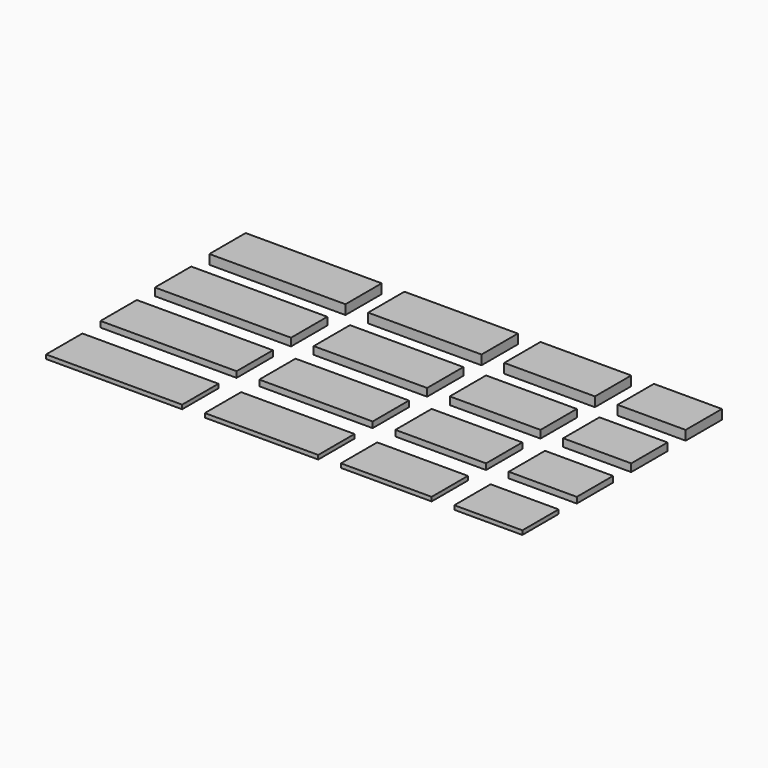
from build123d import *

# Parameters (mm, degrees)
F0_W     = 30
F0_H     = 10
F0_W_2   = 25
F0_W_3   = 20
F0_W_4   = 15
F1_DEPTH = 2.1
F2_DEPTH = 1.7
F3_DEPTH = 1.3
F4_DEPTH = 0.9


with BuildPart() as f1:
    # F0 (on Top) → F1 (new body)
    with BuildSketch(Plane.XY):
        with Locations((-29.892448, 22.135165)):
            Rectangle(F0_W, F0_H)
        with Locations((2.607552, 22.135165)):
            Rectangle(F0_W_2, F0_H)
        with Locations((30.107552, 22.135165)):
            Rectangle(F0_W_3, F0_H)
        with Locations((52.607552, 22.135165)):
            Rectangle(F0_W_4, F0_H)
    extrude(amount=F1_DEPTH)


with BuildPart() as f2:
    # F0 (on Top) → F2 (new body)
    with BuildSketch(Plane.XY):
        with Locations((-29.892448, 7.135165)):
            Rectangle(F0_W, F0_H)
        with Locations((2.607552, 7.135165)):
            Rectangle(F0_W_2, F0_H)
        with Locations((30.107552, 7.135165)):
            Rectangle(F0_W_3, F0_H)
        with Locations((52.607552, 7.135165)):
            Rectangle(F0_W_4, F0_H)
    extrude(amount=F2_DEPTH)


with BuildPart() as f3:
    # F0 (on Top) → F3 (new body)
    with BuildSketch(Plane.XY):
        with Locations((-29.892448, -7.864835)):
            Rectangle(F0_W, F0_H)
        with Locations((2.607552, -7.864835)):
            Rectangle(F0_W_2, F0_H)
        with Locations((30.107552, -7.864835)):
            Rectangle(F0_W_3, F0_H)
        with Locations((52.607552, -7.864835)):
            Rectangle(F0_W_4, F0_H)
    extrude(amount=F3_DEPTH)


with BuildPart() as f4:
    # F0 (on Top) → F4 (new body)
    with BuildSketch(Plane.XY):
        with Locations((-29.892448, -22.864835)):
            Rectangle(F0_W, F0_H)
        with Locations((2.607552, -22.864835)):
            Rectangle(F0_W_2, F0_H)
        with Locations((30.107552, -22.864835)):
            Rectangle(F0_W_3, F0_H)
        with Locations((52.607552, -22.864835)):
            Rectangle(F0_W_4, F0_H)
    extrude(amount=F4_DEPTH)


solid = Compound([f1.part, f2.part, f3.part, f4.part])
